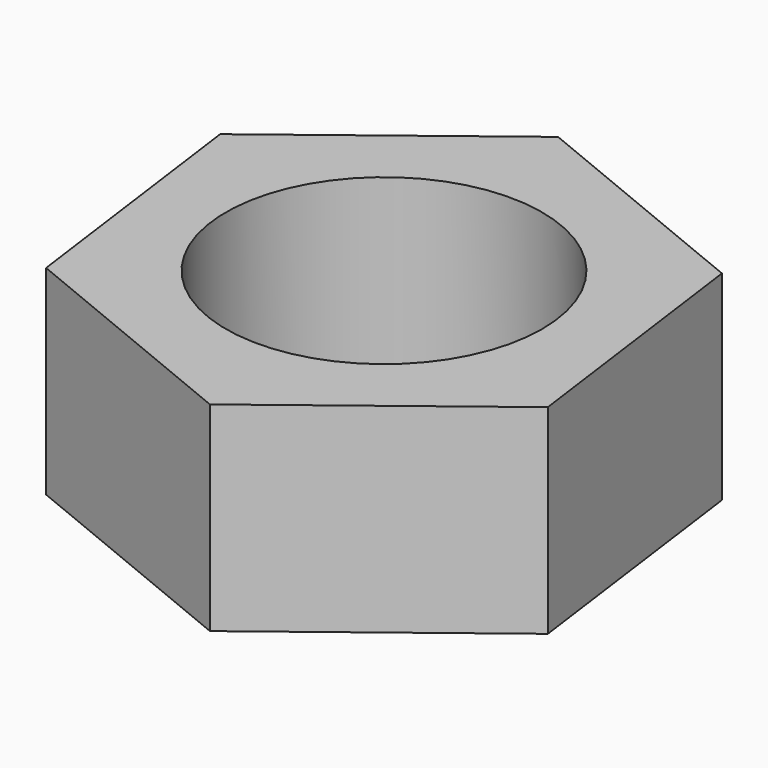
from build123d import *

# Parameters (mm, degrees)
F1_DEPTH = 20
F2_R     = 15.846703
F3_DEPTH = 25


with BuildPart() as f1:
    # F0 (on Top) → F1 (new body)
    with BuildSketch(Plane.XY):
        Polygon((20.939181, 16.157794), (-3.52347, 26.21276), (-24.462651, 10.054966), (-20.939181, -16.157794), (3.52347, -26.21276), (24.462651, -10.054966), align=None)
    extrude(amount=-F1_DEPTH)

    # F2 (on face) → F3 (cut)
    with BuildSketch(Plane.XY):
        Circle(F2_R)
    extrude(amount=-F3_DEPTH, mode=Mode.SUBTRACT)


solid = f1.part
